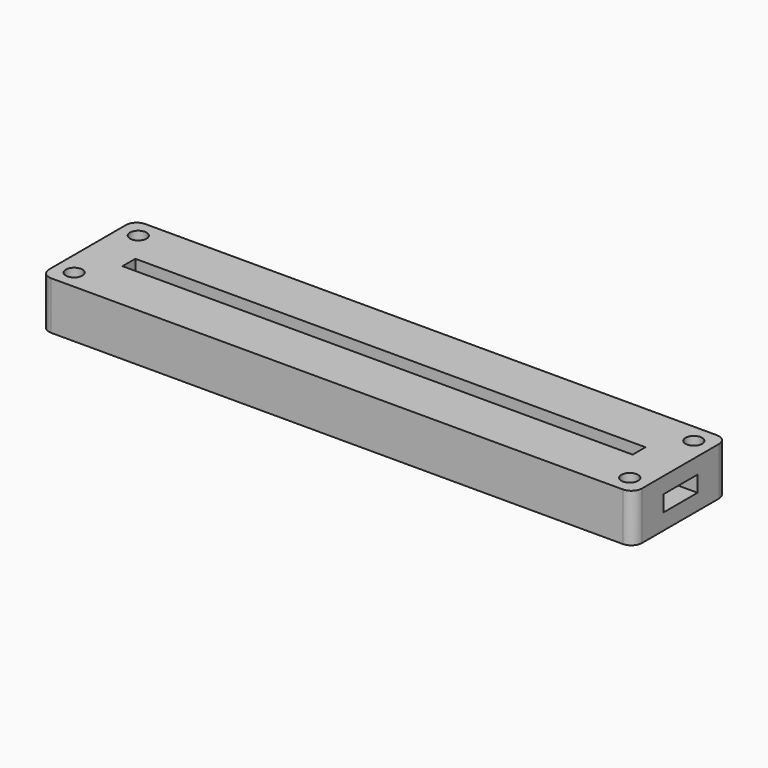
from build123d import *

# Parameters (mm, degrees)
SKETCH_W              = 111
SKETCH_H              = 22
PAD_DEPTH             = 3
PAD001_DEPTH          = 3
SKETCH002_W           = 111
SKETCH002_H           = 22
SKETCH002_W_2         = 95.5
SKETCH002_H_2         = 3
PAD002_DEPTH          = 3
SKETCH003_R           = 1.55
POCKET_DEPTH          = 236.034037
POLARPATTERN_COUNT    = 2
POLARPATTERN001_COUNT = 2
POLARPATTERN002_COUNT = 2
FILLET_R              = 2


with BuildPart() as part:
    # Sketch → Pad (new body)
    with BuildSketch(Plane.XY):
        Rectangle(SKETCH_W, SKETCH_H)
    extrude(amount=PAD_DEPTH)

    # Sketch001 (on Face6 of Pad) → Pad001 (join)
    with BuildSketch(Plane.XY.offset(3)):
        Polygon((-55.5, 11), (55.5, 11), (55.5, 4), (50, 4), (50, 5), (-50, 5), (-50, 4), (-55.5, 4), align=None)
        Polygon((-55.5, -11), (55.5, -11), (55.5, -4), (50, -4), (50, -5), (-50, -5), (-50, -4), (-55.5, -4), align=None)
    extrude(amount=PAD001_DEPTH)

    # Sketch002 (on Face12 of Pad001) → Pad002 (join)
    with BuildSketch(Plane.XY.offset(6)):
        Rectangle(SKETCH002_W, SKETCH002_H)
        Rectangle(SKETCH002_W_2, SKETCH002_H_2, mode=Mode.SUBTRACT)
    extrude(amount=PAD002_DEPTH)

    # Sketch003 (on Face26 of Pad002) → Pocket (cut, through all)
    with BuildSketch(Plane.XY.offset(9)):
        with Locations((-52, 7.5)):
            Circle(SKETCH003_R)
    pocket = extrude(amount=-POCKET_DEPTH, mode=Mode.SUBTRACT)

    # PolarPattern: Pocket ×2 about axis
    polarpattern_axis = Axis((0, 0, 0), (0, 1, 0))
    for i in range(1, POLARPATTERN_COUNT):
        add(pocket.rotate(polarpattern_axis, i * 360 / POLARPATTERN_COUNT), mode=Mode.SUBTRACT)

    # PolarPattern001: Pocket ×2 about axis
    polarpattern001_axis = Axis((0, 0, 0), (1, 0, 0))
    for i in range(1, POLARPATTERN001_COUNT):
        add(pocket.rotate(polarpattern001_axis, i * 360 / POLARPATTERN001_COUNT), mode=Mode.SUBTRACT)

    # PolarPattern002: Pocket ×2 about axis
    polarpattern002_axis = Axis((0, 0, 9), (0, 0, 1))
    for i in range(1, POLARPATTERN002_COUNT):
        add(pocket.rotate(polarpattern002_axis, i * 360 / POLARPATTERN002_COUNT), mode=Mode.SUBTRACT)

    # Fillet
    fillet_edges = [part.edges().sort_by_distance(p)[0] for p in [
        (55.5, 11, 7.5),
        (55.5, 11, 4.5),
        (55.5, 11, 1.5),
        (55.5, -11, 7.5),
        (-55.5, 11, 7.5),
        (-55.5, -11, 7.5),
    ]]
    fillet(fillet_edges, radius=FILLET_R)


solid = part.part
